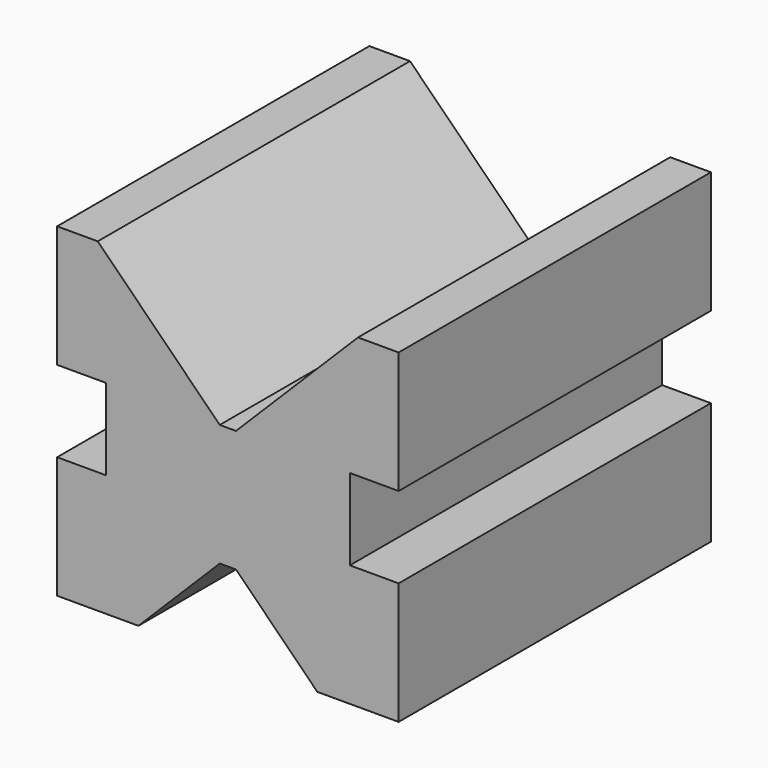
from build123d import *

# Parameters (mm, degrees)
F1_DEPTH = 12


with BuildPart() as f1:
    # F0 (on Front) → F1 (new body, symmetric)
    with BuildSketch(Plane.XZ):
        Polygon((-16.544905, 8.570568), (-16.544905, -6.429432), (-6.544905, -6.429432), (3.455095, 3.570568), (4.455095, 3.570568), (4.455095, 18.570568), (3.455095, 18.570568), (-11.544905, 33.570568), (-16.544905, 33.570568), (-16.544905, 18.570568), (-10.544905, 18.570568), (-10.544905, 8.570568), align=None)
    extrude(amount=F1_DEPTH, both=True)

    # F2: F1 across face


with BuildPart() as f1_1:
    add(f1.part)
    add(f1.part.mirror(Plane(origin=(-7.082177, 12, 12.065645), x_dir=(1, 0, 0), z_dir=(0, 1, 0))))

    # F3: F1 across face


with BuildPart() as f1_2:
    add(f1_1.part)
    add(f1_1.part.mirror(Plane(origin=(4.455095, 12, 11.070568), x_dir=(0, 1, 0), z_dir=(1, 0, 0))))


solid = f1_2.part
